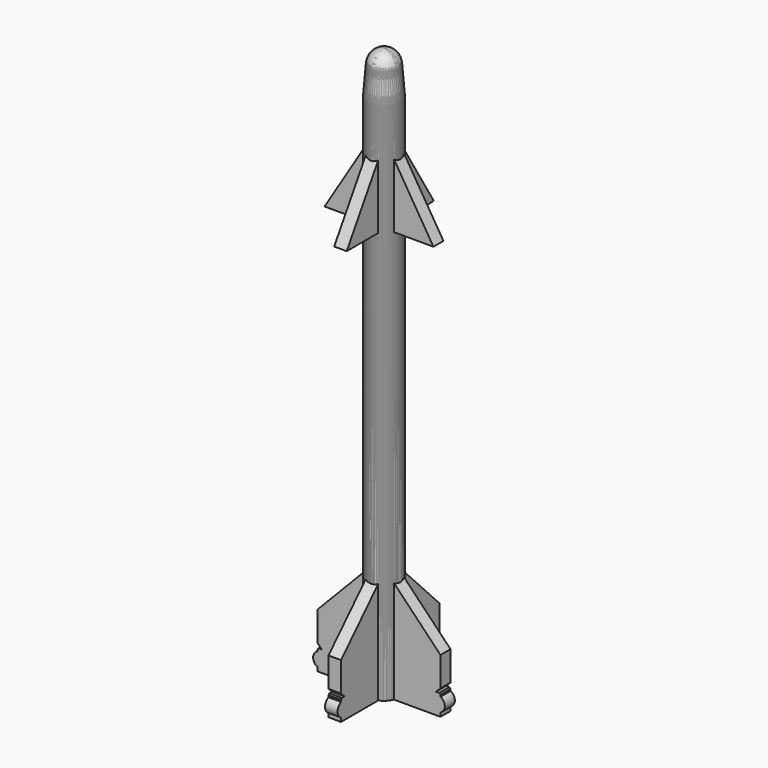
from build123d import *

# Parameters (mm, degrees)
F3_DEPTH = 0.2
F4_COUNT = 4


with BuildPart() as f1:
    # F0 (on Front) → F1 (revolve)
    with BuildSketch(Plane.XZ):
        with BuildLine():
            Line((0, 18.0555555556), (0, 0))
            Line((0, 0), (0.5208333333, 0))
            Line((0.5208333333, 0), (0.5208333333, 16.7361111111))
            Line((0.5208333333, 16.7361111111), (0.4504270698, 17.6388888889))
            ThreePointArc((0.4504270698, 17.6388888889), (0.3067962094, 17.9354151302), (0, 18.0555555556))
        make_face()
    revolve(axis=Axis((0, 0, 9.0277777778), (0, 0, 1)))

    # F2 (on Front) → F3 (join, symmetric)
    with BuildSketch(Plane.XZ):
        with BuildLine():
            Line((1.9618055556, 1.7361111111), (0.3258054073, 3.4312437949))
            Line((0.3258054073, 3.4312437949), (-0.3258054073, 3.4312437949))
            Line((-0.3258054073, 3.4312437949), (-1.9618055556, 1.7361111111))
            Line((-1.9618055556, 1.7361111111), (-1.9618055556, 0.7986111111))
            Line((-1.9618055556, 0.7986111111), (-1.8229166667, 0.6597222222))
            Line((-1.8229166667, 0.6597222222), (-1.9201388889, 0.6597222222))
            Line((-1.9201388889, 0.6597222222), (-1.9618055556, 0.6180555556))
            Line((-1.9618055556, 0.6180555556), (-1.9618055556, 0.5625))
            ThreePointArc((-1.9618055556, 0.5625), (-2.1006944444, 0.34375), (-1.9618055556, 0.125))
            Line((-1.9618055556, 0.125), (-1.9618055556, 0))
            Line((-1.9618055556, 0), (1.9618055556, 0))
            Line((1.9618055556, 0), (1.9618055556, 0.125))
            ThreePointArc((1.9618055556, 0.125), (2.1006944444, 0.34375), (1.9618055556, 0.5625))
            Line((1.9618055556, 0.5625), (1.9618055556, 0.6136157699))
            Line((1.9618055556, 0.6136157699), (1.9251119965, 0.6597222222))
            Line((1.9251119965, 0.6597222222), (1.8229166667, 0.6597222222))
            Line((1.8229166667, 0.6597222222), (1.9618055556, 0.7986111111))
            Line((1.9618055556, 0.7986111111), (1.9618055556, 1.7361111111))
        make_face()
        Polygon((0.3362670986, 15.4047459633), (-0.3362670986, 15.4047459633), (-1.7361111111, 13.125), (1.7361111111, 13.125), align=None)
    extrude(amount=F3_DEPTH, both=True)


with BuildPart() as f4_1:
    # F4: instance of F1
    add(f1.part.rotate(Axis((0, 0, 0), (0, 0, 1)), 1 * 360 / F4_COUNT))


with BuildPart() as f4_2:
    # F4: instance of F1
    add(f1.part.rotate(Axis((0, 0, 0), (0, 0, 1)), 2 * 360 / F4_COUNT))


with BuildPart() as f4_3:
    # F4: instance of F1
    add(f1.part.rotate(Axis((0, 0, 0), (0, 0, 1)), 3 * 360 / F4_COUNT))


solid = Compound([f1.part, f4_1.part, f4_2.part, f4_3.part])
